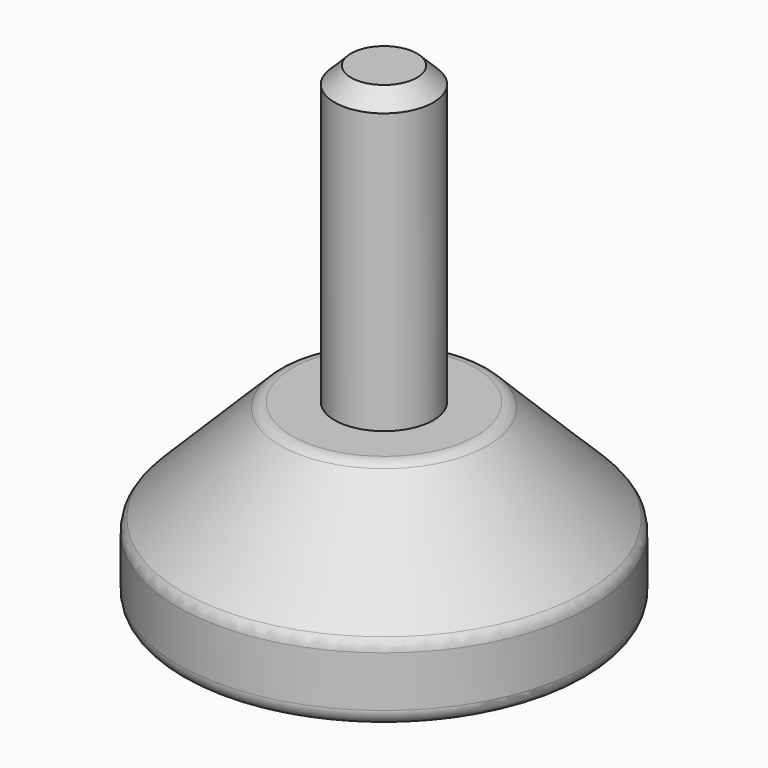
from build123d import *

# Parameters (mm, degrees)
FILLET_R     = 1
SKETCH001_R  = 3
PAD_DEPTH    = 18
CHAMFER_SIZE = 1


with BuildPart() as body:
    # Sketch → Revolution (revolve)
    with BuildSketch(Plane.XZ):
        Polygon((0, 11), (6, 11), (12.5, 4.5), (12.5, 0), (0, 0), align=None)
    revolve(axis=Axis((0, 0, 0), (0, 0, 1)))

    # Fillet
    fillet_edges = [body.edges().sort_by_distance(p)[0] for p in [
        (-12.5, 0, 0),
        (-12.5, 0, 4.5),
        (-6, 0, 11),
    ]]
    fillet(fillet_edges, radius=FILLET_R)


with BuildPart() as body001:
    # Sketch001 (on DatumPlane) → Pad (new body)
    with BuildSketch(Plane.XY.offset(11)):
        Circle(SKETCH001_R)
    extrude(amount=PAD_DEPTH)

    # Chamfer
    chamfer_edges = [body001.edges().sort_by_distance(p)[0] for p in [
        (-3, 0, 29),
    ]]
    chamfer(chamfer_edges, length=CHAMFER_SIZE)


solid = Compound([body.part, body001.part])
